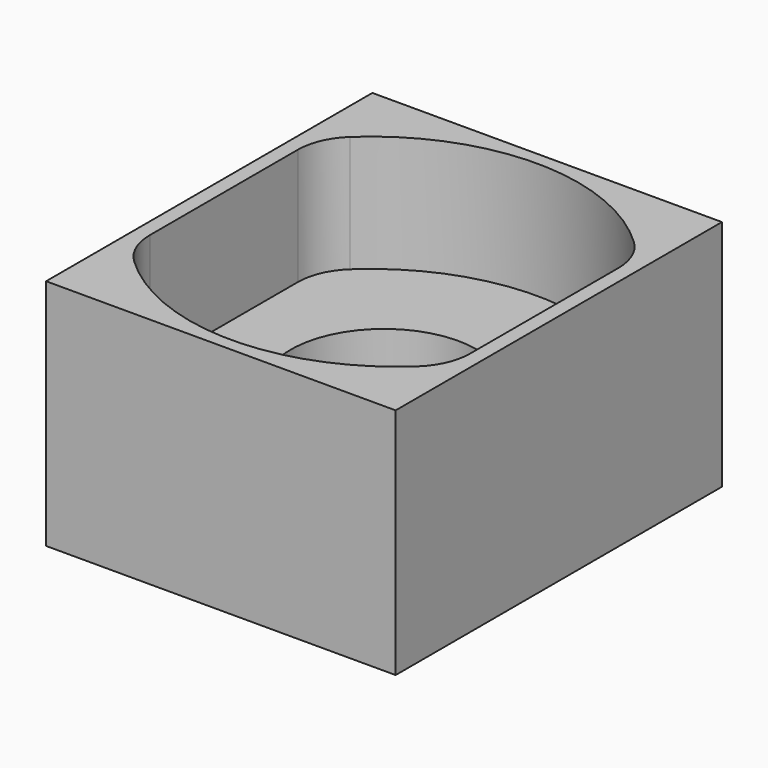
from build123d import *

# Parameters (mm, degrees)
F0_W     = 6
F0_H     = 7
F0_R     = 1.6
F1_DEPTH = 4
F2_DEPTH = 2


with BuildPart() as f1:
    # F0 (on Top) → F1 (new body)
    with BuildSketch(Plane.XY):
        Rectangle(F0_W, F0_H)
        with BuildLine():
            ThreePointArc((2.434089, 2.317111), (2.66763, 1.985149), (2.75, 1.587713))
            Line((2.75, 1.587713), (2.75, -1.587713))
            ThreePointArc((2.75, -1.587713), (2.66763, -1.985149), (2.434089, -2.317111))
            ThreePointArc((2.434089, -2.317111), (0, -3.279952), (-2.434089, -2.317111))
            ThreePointArc((-2.434089, -2.317111), (-2.66763, -1.985149), (-2.75, -1.587713))
            Line((-2.75, -1.587713), (-2.75, 1.587713))
            ThreePointArc((-2.75, 1.587713), (-2.66763, 1.985149), (-2.434089, 2.317111))
            ThreePointArc((-2.434089, 2.317111), (0, 3.279952), (2.434089, 2.317111))
        make_face(mode=Mode.SUBTRACT)
        with BuildLine():
            Line((2.75, -1.587713), (2.75, 1.587713))
            ThreePointArc((2.75, 1.587713), (2.66763, 1.985149), (2.434089, 2.317111))
            ThreePointArc((2.434089, 2.317111), (0, 3.279952), (-2.434089, 2.317111))
            ThreePointArc((-2.434089, 2.317111), (-2.66763, 1.985149), (-2.75, 1.587713))
            Line((-2.75, 1.587713), (-2.75, -1.587713))
            ThreePointArc((-2.75, -1.587713), (-2.66763, -1.985149), (-2.434089, -2.317111))
            ThreePointArc((-2.434089, -2.317111), (0, -3.279952), (2.434089, -2.317111))
            ThreePointArc((2.434089, -2.317111), (2.66763, -1.985149), (2.75, -1.587713))
        make_face()
        Circle(F0_R, mode=Mode.SUBTRACT)
        with BuildLine():
            Line((2.75, -1.587713), (2.75, 1.587713))
            ThreePointArc((2.75, 1.587713), (2.66763, 1.985149), (2.434089, 2.317111))
            ThreePointArc((2.434089, 2.317111), (0, 3.279952), (-2.434089, 2.317111))
            ThreePointArc((-2.434089, 2.317111), (-2.66763, 1.985149), (-2.75, 1.587713))
            Line((-2.75, 1.587713), (-2.75, -1.587713))
            ThreePointArc((-2.75, -1.587713), (-2.66763, -1.985149), (-2.434089, -2.317111))
            ThreePointArc((-2.434089, -2.317111), (0, -3.279952), (2.434089, -2.317111))
            ThreePointArc((2.434089, -2.317111), (2.66763, -1.985149), (2.75, -1.587713))
        make_face()
        Circle(F0_R, mode=Mode.SUBTRACT)
        with BuildLine():
            Line((2.75, -1.587713), (2.75, 1.587713))
            ThreePointArc((2.75, 1.587713), (2.66763, 1.985149), (2.434089, 2.317111))
            ThreePointArc((2.434089, 2.317111), (0, 3.279952), (-2.434089, 2.317111))
            ThreePointArc((-2.434089, 2.317111), (-2.66763, 1.985149), (-2.75, 1.587713))
            Line((-2.75, 1.587713), (-2.75, -1.587713))
            ThreePointArc((-2.75, -1.587713), (-2.66763, -1.985149), (-2.434089, -2.317111))
            ThreePointArc((-2.434089, -2.317111), (0, -3.279952), (2.434089, -2.317111))
            ThreePointArc((2.434089, -2.317111), (2.66763, -1.985149), (2.75, -1.587713))
        make_face()
        Circle(F0_R, mode=Mode.SUBTRACT)
        with BuildLine():
            Line((2.75, -1.587713), (2.75, 1.587713))
            ThreePointArc((2.75, 1.587713), (2.66763, 1.985149), (2.434089, 2.317111))
            ThreePointArc((2.434089, 2.317111), (0, 3.279952), (-2.434089, 2.317111))
            ThreePointArc((-2.434089, 2.317111), (-2.66763, 1.985149), (-2.75, 1.587713))
            Line((-2.75, 1.587713), (-2.75, -1.587713))
            ThreePointArc((-2.75, -1.587713), (-2.66763, -1.985149), (-2.434089, -2.317111))
            ThreePointArc((-2.434089, -2.317111), (0, -3.279952), (2.434089, -2.317111))
            ThreePointArc((2.434089, -2.317111), (2.66763, -1.985149), (2.75, -1.587713))
        make_face()
        Circle(F0_R, mode=Mode.SUBTRACT)
        with BuildLine():
            Line((2.75, -1.587713), (2.75, 1.587713))
            ThreePointArc((2.75, 1.587713), (2.66763, 1.985149), (2.434089, 2.317111))
            ThreePointArc((2.434089, 2.317111), (0, 3.279952), (-2.434089, 2.317111))
            ThreePointArc((-2.434089, 2.317111), (-2.66763, 1.985149), (-2.75, 1.587713))
            Line((-2.75, 1.587713), (-2.75, -1.587713))
            ThreePointArc((-2.75, -1.587713), (-2.66763, -1.985149), (-2.434089, -2.317111))
            ThreePointArc((-2.434089, -2.317111), (0, -3.279952), (2.434089, -2.317111))
            ThreePointArc((2.434089, -2.317111), (2.66763, -1.985149), (2.75, -1.587713))
        make_face()
        Circle(F0_R, mode=Mode.SUBTRACT)
        with BuildLine():
            Line((2.75, -1.587713), (2.75, 1.587713))
            ThreePointArc((2.75, 1.587713), (2.66763, 1.985149), (2.434089, 2.317111))
            ThreePointArc((2.434089, 2.317111), (0, 3.279952), (-2.434089, 2.317111))
            ThreePointArc((-2.434089, 2.317111), (-2.66763, 1.985149), (-2.75, 1.587713))
            Line((-2.75, 1.587713), (-2.75, -1.587713))
            ThreePointArc((-2.75, -1.587713), (-2.66763, -1.985149), (-2.434089, -2.317111))
            ThreePointArc((-2.434089, -2.317111), (0, -3.279952), (2.434089, -2.317111))
            ThreePointArc((2.434089, -2.317111), (2.66763, -1.985149), (2.75, -1.587713))
        make_face()
        Circle(F0_R, mode=Mode.SUBTRACT)
        with BuildLine():
            Line((2.75, -1.587713), (2.75, 1.587713))
            ThreePointArc((2.75, 1.587713), (2.66763, 1.985149), (2.434089, 2.317111))
            ThreePointArc((2.434089, 2.317111), (0, 3.279952), (-2.434089, 2.317111))
            ThreePointArc((-2.434089, 2.317111), (-2.66763, 1.985149), (-2.75, 1.587713))
            Line((-2.75, 1.587713), (-2.75, -1.587713))
            ThreePointArc((-2.75, -1.587713), (-2.66763, -1.985149), (-2.434089, -2.317111))
            ThreePointArc((-2.434089, -2.317111), (0, -3.279952), (2.434089, -2.317111))
            ThreePointArc((2.434089, -2.317111), (2.66763, -1.985149), (2.75, -1.587713))
        make_face()
        Circle(F0_R, mode=Mode.SUBTRACT)
        with BuildLine():
            Line((2.75, -1.587713), (2.75, 1.587713))
            ThreePointArc((2.75, 1.587713), (2.66763, 1.985149), (2.434089, 2.317111))
            ThreePointArc((2.434089, 2.317111), (0, 3.279952), (-2.434089, 2.317111))
            ThreePointArc((-2.434089, 2.317111), (-2.66763, 1.985149), (-2.75, 1.587713))
            Line((-2.75, 1.587713), (-2.75, -1.587713))
            ThreePointArc((-2.75, -1.587713), (-2.66763, -1.985149), (-2.434089, -2.317111))
            ThreePointArc((-2.434089, -2.317111), (0, -3.279952), (2.434089, -2.317111))
            ThreePointArc((2.434089, -2.317111), (2.66763, -1.985149), (2.75, -1.587713))
        make_face()
        Circle(F0_R, mode=Mode.SUBTRACT)
        with BuildLine():
            Line((2.75, -1.587713), (2.75, 1.587713))
            ThreePointArc((2.75, 1.587713), (2.66763, 1.985149), (2.434089, 2.317111))
            ThreePointArc((2.434089, 2.317111), (0, 3.279952), (-2.434089, 2.317111))
            ThreePointArc((-2.434089, 2.317111), (-2.66763, 1.985149), (-2.75, 1.587713))
            Line((-2.75, 1.587713), (-2.75, -1.587713))
            ThreePointArc((-2.75, -1.587713), (-2.66763, -1.985149), (-2.434089, -2.317111))
            ThreePointArc((-2.434089, -2.317111), (0, -3.279952), (2.434089, -2.317111))
            ThreePointArc((2.434089, -2.317111), (2.66763, -1.985149), (2.75, -1.587713))
        make_face()
        Circle(F0_R, mode=Mode.SUBTRACT)
    extrude(amount=-F1_DEPTH)

    # F0 (on Top) → F2 (cut)
    with BuildSketch(Plane.XY):
        with BuildLine():
            Line((2.75, -1.587713), (2.75, 1.587713))
            ThreePointArc((2.75, 1.587713), (2.66763, 1.985149), (2.434089, 2.317111))
            ThreePointArc((2.434089, 2.317111), (0, 3.279952), (-2.434089, 2.317111))
            ThreePointArc((-2.434089, 2.317111), (-2.66763, 1.985149), (-2.75, 1.587713))
            Line((-2.75, 1.587713), (-2.75, -1.587713))
            ThreePointArc((-2.75, -1.587713), (-2.66763, -1.985149), (-2.434089, -2.317111))
            ThreePointArc((-2.434089, -2.317111), (0, -3.279952), (2.434089, -2.317111))
            ThreePointArc((2.434089, -2.317111), (2.66763, -1.985149), (2.75, -1.587713))
        make_face()
        Circle(F0_R, mode=Mode.SUBTRACT)
        with BuildLine():
            Line((2.75, -1.587713), (2.75, 1.587713))
            ThreePointArc((2.75, 1.587713), (2.66763, 1.985149), (2.434089, 2.317111))
            ThreePointArc((2.434089, 2.317111), (0, 3.279952), (-2.434089, 2.317111))
            ThreePointArc((-2.434089, 2.317111), (-2.66763, 1.985149), (-2.75, 1.587713))
            Line((-2.75, 1.587713), (-2.75, -1.587713))
            ThreePointArc((-2.75, -1.587713), (-2.66763, -1.985149), (-2.434089, -2.317111))
            ThreePointArc((-2.434089, -2.317111), (0, -3.279952), (2.434089, -2.317111))
            ThreePointArc((2.434089, -2.317111), (2.66763, -1.985149), (2.75, -1.587713))
        make_face()
        Circle(F0_R, mode=Mode.SUBTRACT)
        with BuildLine():
            Line((2.75, -1.587713), (2.75, 1.587713))
            ThreePointArc((2.75, 1.587713), (2.66763, 1.985149), (2.434089, 2.317111))
            ThreePointArc((2.434089, 2.317111), (0, 3.279952), (-2.434089, 2.317111))
            ThreePointArc((-2.434089, 2.317111), (-2.66763, 1.985149), (-2.75, 1.587713))
            Line((-2.75, 1.587713), (-2.75, -1.587713))
            ThreePointArc((-2.75, -1.587713), (-2.66763, -1.985149), (-2.434089, -2.317111))
            ThreePointArc((-2.434089, -2.317111), (0, -3.279952), (2.434089, -2.317111))
            ThreePointArc((2.434089, -2.317111), (2.66763, -1.985149), (2.75, -1.587713))
        make_face()
        Circle(F0_R, mode=Mode.SUBTRACT)
        with BuildLine():
            Line((2.75, -1.587713), (2.75, 1.587713))
            ThreePointArc((2.75, 1.587713), (2.66763, 1.985149), (2.434089, 2.317111))
            ThreePointArc((2.434089, 2.317111), (0, 3.279952), (-2.434089, 2.317111))
            ThreePointArc((-2.434089, 2.317111), (-2.66763, 1.985149), (-2.75, 1.587713))
            Line((-2.75, 1.587713), (-2.75, -1.587713))
            ThreePointArc((-2.75, -1.587713), (-2.66763, -1.985149), (-2.434089, -2.317111))
            ThreePointArc((-2.434089, -2.317111), (0, -3.279952), (2.434089, -2.317111))
            ThreePointArc((2.434089, -2.317111), (2.66763, -1.985149), (2.75, -1.587713))
        make_face()
        Circle(F0_R, mode=Mode.SUBTRACT)
        with BuildLine():
            Line((2.75, -1.587713), (2.75, 1.587713))
            ThreePointArc((2.75, 1.587713), (2.66763, 1.985149), (2.434089, 2.317111))
            ThreePointArc((2.434089, 2.317111), (0, 3.279952), (-2.434089, 2.317111))
            ThreePointArc((-2.434089, 2.317111), (-2.66763, 1.985149), (-2.75, 1.587713))
            Line((-2.75, 1.587713), (-2.75, -1.587713))
            ThreePointArc((-2.75, -1.587713), (-2.66763, -1.985149), (-2.434089, -2.317111))
            ThreePointArc((-2.434089, -2.317111), (0, -3.279952), (2.434089, -2.317111))
            ThreePointArc((2.434089, -2.317111), (2.66763, -1.985149), (2.75, -1.587713))
        make_face()
        Circle(F0_R, mode=Mode.SUBTRACT)
        with BuildLine():
            Line((2.75, -1.587713), (2.75, 1.587713))
            ThreePointArc((2.75, 1.587713), (2.66763, 1.985149), (2.434089, 2.317111))
            ThreePointArc((2.434089, 2.317111), (0, 3.279952), (-2.434089, 2.317111))
            ThreePointArc((-2.434089, 2.317111), (-2.66763, 1.985149), (-2.75, 1.587713))
            Line((-2.75, 1.587713), (-2.75, -1.587713))
            ThreePointArc((-2.75, -1.587713), (-2.66763, -1.985149), (-2.434089, -2.317111))
            ThreePointArc((-2.434089, -2.317111), (0, -3.279952), (2.434089, -2.317111))
            ThreePointArc((2.434089, -2.317111), (2.66763, -1.985149), (2.75, -1.587713))
        make_face()
        Circle(F0_R, mode=Mode.SUBTRACT)
        with BuildLine():
            Line((2.75, -1.587713), (2.75, 1.587713))
            ThreePointArc((2.75, 1.587713), (2.66763, 1.985149), (2.434089, 2.317111))
            ThreePointArc((2.434089, 2.317111), (0, 3.279952), (-2.434089, 2.317111))
            ThreePointArc((-2.434089, 2.317111), (-2.66763, 1.985149), (-2.75, 1.587713))
            Line((-2.75, 1.587713), (-2.75, -1.587713))
            ThreePointArc((-2.75, -1.587713), (-2.66763, -1.985149), (-2.434089, -2.317111))
            ThreePointArc((-2.434089, -2.317111), (0, -3.279952), (2.434089, -2.317111))
            ThreePointArc((2.434089, -2.317111), (2.66763, -1.985149), (2.75, -1.587713))
        make_face()
        Circle(F0_R, mode=Mode.SUBTRACT)
    extrude(amount=-F2_DEPTH, mode=Mode.SUBTRACT)


solid = f1.part
